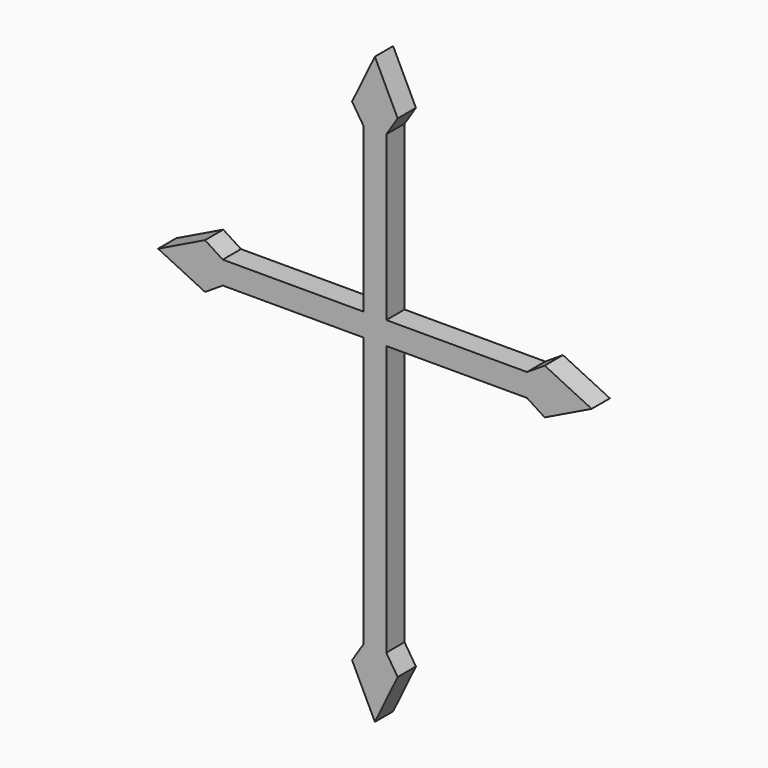
from build123d import *

# Parameters (mm, degrees)
F1_DEPTH = 1.5
F2_DEPTH = 0.5
F2_TAPER = 50
F3_DEPTH = 1.5


with BuildPart() as f1:
    # F0 (on Front) → F1 (new body)
    with BuildSketch(Plane.XZ):
        Polygon((-1.5, 1.5), (-20, 1.5), (-22.3259367049, 3), (-28.5, 0), (-22.3259367049, -3), (-20, -1.5), (-1.5, -1.5), (-1.5, -37), (-3, -39.3259400742), (0, -45.5), (3, -39.3259400742), (1.5, -37), (1.5, -1.5), (20, -1.5), (22.3259367049, -3), (28.5, 0), (22.3259367049, 3), (20, 1.5), (1.5, 1.5), (1.5, 23), (3, 25.3259400742), (0, 31.5), (-3, 25.3259400742), (-1.5, 23), align=None)
        Polygon((-1, -1), (-1.5, -1), (-20, -1), (-22.3259367049, -2.5), (-27.4709894508, 0), (-22.3259367049, 2.5), (-20, 1), (-1.5, 1), (-1, 1), (-1, 23), (-2.5, 25.3259400742), (0, 30.4709900124), (2.5, 25.3259400742), (1, 23), (1, 1), (1.5, 1), (20, 1), (22.3259367049, 2.5), (27.4709894508, 0), (22.3259367049, -2.5), (20, -1), (1.5, -1), (1, -1), (1, -37), (2.5, -39.3259400742), (0, -44.4709900124), (-2.5, -39.3259400742), (-1, -37), (-1, -1.5), align=None, mode=Mode.SUBTRACT)
        Polygon((-20, -1), (-1.5, -1), (-1, -1), (-1, -1.5), (-1, -37), (-2.5, -39.3259400742), (0, -44.4709900124), (2.5, -39.3259400742), (1, -37), (1, -1), (1.5, -1), (20, -1), (22.3259367049, -2.5), (27.4709894508, 0), (22.3259367049, 2.5), (20, 1), (1.5, 1), (1, 1), (1, 23), (2.5, 25.3259400742), (0, 30.4709900124), (-2.5, 25.3259400742), (-1, 23), (-1, 1), (-1.5, 1), (-20, 1), (-22.3259367049, 2.5), (-27.4709894508, 0), (-22.3259367049, -2.5), align=None)
    extrude(amount=F1_DEPTH)

    # F0 (on Front) → F2 (join)
    with BuildSketch(Plane.XZ):
        Polygon((-1.5, 1.5), (-20, 1.5), (-22.3259367049, 3), (-28.5, 0), (-22.3259367049, -3), (-20, -1.5), (-1.5, -1.5), (-1.5, -37), (-3, -39.3259400742), (0, -45.5), (3, -39.3259400742), (1.5, -37), (1.5, -1.5), (20, -1.5), (22.3259367049, -3), (28.5, 0), (22.3259367049, 3), (20, 1.5), (1.5, 1.5), (1.5, 23), (3, 25.3259400742), (0, 31.5), (-3, 25.3259400742), (-1.5, 23), align=None)
        Polygon((-1, -1), (-1.5, -1), (-20, -1), (-22.3259367049, -2.5), (-27.4709894508, 0), (-22.3259367049, 2.5), (-20, 1), (-1.5, 1), (-1, 1), (-1, 23), (-2.5, 25.3259400742), (0, 30.4709900124), (2.5, 25.3259400742), (1, 23), (1, 1), (1.5, 1), (20, 1), (22.3259367049, 2.5), (27.4709894508, 0), (22.3259367049, -2.5), (20, -1), (1.5, -1), (1, -1), (1, -37), (2.5, -39.3259400742), (0, -44.4709900124), (-2.5, -39.3259400742), (-1, -37), (-1, -1.5), align=None, mode=Mode.SUBTRACT)
        Polygon((-20, -1), (-1.5, -1), (-1, -1), (-1, -1.5), (-1, -37), (-2.5, -39.3259400742), (0, -44.4709900124), (2.5, -39.3259400742), (1, -37), (1, -1), (1.5, -1), (20, -1), (22.3259367049, -2.5), (27.4709894508, 0), (22.3259367049, 2.5), (20, 1), (1.5, 1), (1, 1), (1, 23), (2.5, 25.3259400742), (0, 30.4709900124), (-2.5, 25.3259400742), (-1, 23), (-1, 1), (-1.5, 1), (-20, 1), (-22.3259367049, 2.5), (-27.4709894508, 0), (-22.3259367049, -2.5), align=None)
    extrude(amount=-F2_DEPTH, taper=F2_TAPER)

    # F3 (add): a face of the model
    f3_faces = [f1.faces().sort_by_distance(p)[0] for p in [
        (0, -1.5, -4.093430874),
    ]]
    extrude(f3_faces, amount=F3_DEPTH)


solid = f1.part
